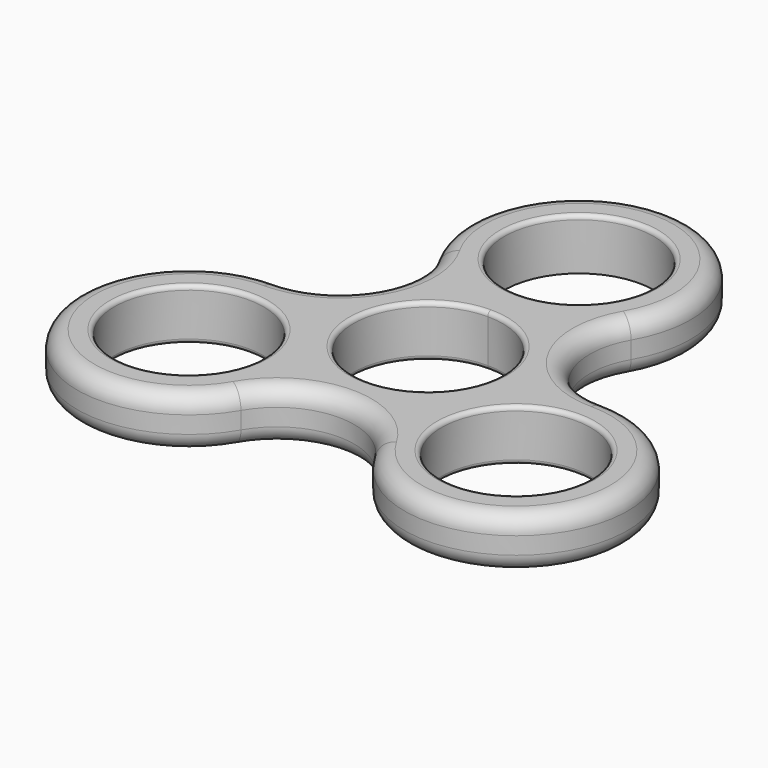
from build123d import *

# Parameters (mm, degrees)
F0_R     = 11.049
F1_DEPTH = 7.62
F2_R     = 0.635
F3_R     = 2.54


with BuildPart() as f1:
    # F0 (on Top) → F1 (new body)
    with BuildSketch(Plane.XY):
        with BuildLine():
            ThreePointArc((-14.2980794165, 19.685), (-12.7667497817, 13.97), (-14.2980794165, 8.255))
            ThreePointArc((-14.2980794165, 8.255), (-18.4817497817, 4.0713296347), (-24.1967497817, 2.54))
            ThreePointArc((-24.1967497817, 2.54), (-38.4948291982, -22.225), (-9.8986703653, -22.225))
            ThreePointArc((-9.8986703653, -22.225), (0, -16.51), (9.8986703653, -22.225))
            ThreePointArc((9.8986703653, -22.225), (38.4948291982, -22.225), (24.1967497817, 2.54))
            ThreePointArc((24.1967497817, 2.54), (14.2980794165, 8.255), (14.2980794165, 19.685))
            ThreePointArc((14.2980794165, 19.685), (0, 44.45), (-14.2980794165, 19.685))
        make_face()
        with Locations((-24.1967497817, -13.97)):
            Circle(F0_R, mode=Mode.SUBTRACT)
        with Locations((24.1967497817, -13.97)):
            Circle(F0_R, mode=Mode.SUBTRACT)
        with BuildLine():
            ThreePointArc((0, 11.049), (7.8128228253, 7.8128228253), (11.049, 0))
            ThreePointArc((11.049, 0), (-2.8596916293, -10.6725144547), (-9.5687146864, 5.5245))
            ThreePointArc((-9.5687146864, 5.5245), (-5.5245, 9.5687146864), (0, 11.049))
        make_face(mode=Mode.SUBTRACT)
        with BuildLine():
            ThreePointArc((11.049, 27.94), (7.8128228253, 20.1271771747), (0, 16.891))
            ThreePointArc((0, 16.891), (-7.8128228253, 35.7528228253), (11.049, 27.94))
        make_face(mode=Mode.SUBTRACT)
    extrude(amount=F1_DEPTH)

    # F2
    f2_edges = [f1.edges().sort_by_distance(p)[0] for p in [
        (9.568715, -5.5245, 7.62),
        (9.568715, -5.5245, 0),
        (13.14775, -13.97, 0),
        (-35.24575, -13.97, 0),
        (-35.24575, -13.97, 7.62),
        (13.14775, -13.97, 7.62),
        (-11.049, 27.94, 7.62),
    ]]
    fillet(f2_edges, radius=F2_R)

    # F3
    f3_edges = [f1.edges().sort_by_distance(p)[0] for p in [
        (-38.494829, -22.225, 7.62),
        (-38.494829, -22.225, 0),
    ]]
    fillet(f3_edges, radius=F3_R)


solid = f1.part
